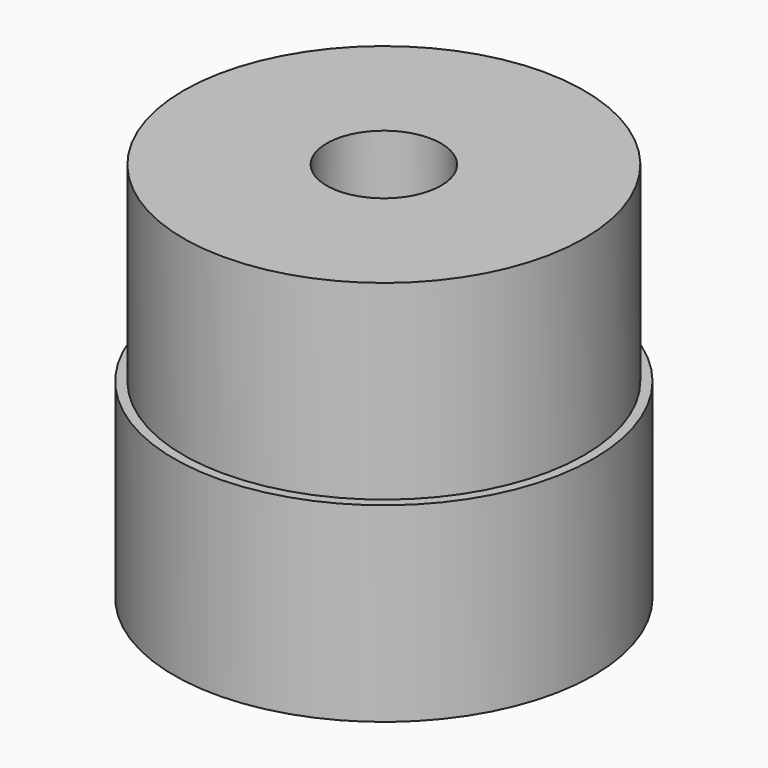
from build123d import *

# Parameters (mm, degrees)
F0_R     = 7.875
F0_R_2   = 2.25
F1_DEPTH = 7.5
F2_R     = 8.25
F2_R_2   = 2.75
F3_DEPTH = 7.5
F4_R     = 1.25
F5_DEPTH = 25


with BuildPart() as f1:
    # F0 (on Top) → F1 (new body)
    with BuildSketch(Plane.XY):
        Circle(F0_R)
        Circle(F0_R_2, mode=Mode.SUBTRACT)
    extrude(amount=F1_DEPTH)

    # F2 (on face) → F3 (join)
    with BuildSketch(Plane(origin=(0, 0, 0), x_dir=(1, 0, 0), z_dir=(0, 0, -1))):
        Circle(F2_R)
        Circle(F2_R_2, mode=Mode.SUBTRACT)
    extrude(amount=F3_DEPTH)

    # F4 (on Right) → F5 (cut)
    with BuildSketch(Plane.YZ):
        with Locations((0, 4.5)):
            Circle(F4_R)
        with Locations((0, -4.5)):
            Circle(F4_R)
    extrude(amount=-F5_DEPTH, mode=Mode.SUBTRACT)


solid = f1.part
